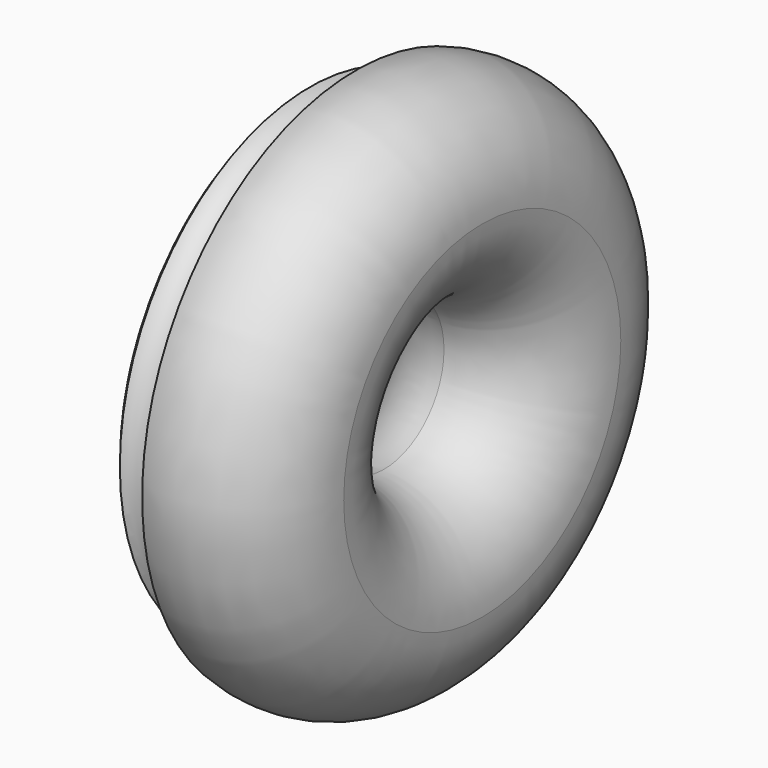
from build123d import *


with BuildPart() as f1:
    # F0 (on Top) → F1 (revolve)
    with BuildSketch(Plane.XY):
        with BuildLine():
            ThreePointArc((-37.764938, 32.769032), (-46.841471, 17.489327), (-50, 0))
            ThreePointArc((-50, 0), (-35.355339, -35.355339), (0, -50))
            ThreePointArc((0, -50), (35.355339, -35.355339), (50, 0))
            ThreePointArc((50, 0), (29.873933, 40.094241), (-14.301926, 47.910906))
            ThreePointArc((-14.301926, 47.910906), (-13.33576, 45.031099), (-13.008647, 42.011205))
            ThreePointArc((-13.008647, 42.011205), (-22.179353, 28.7986), (-37.764938, 32.769032))
        make_face()
    revolve(axis=Axis((4.434294, -88.153906, 0), (1, 0, 0)))


solid = f1.part
